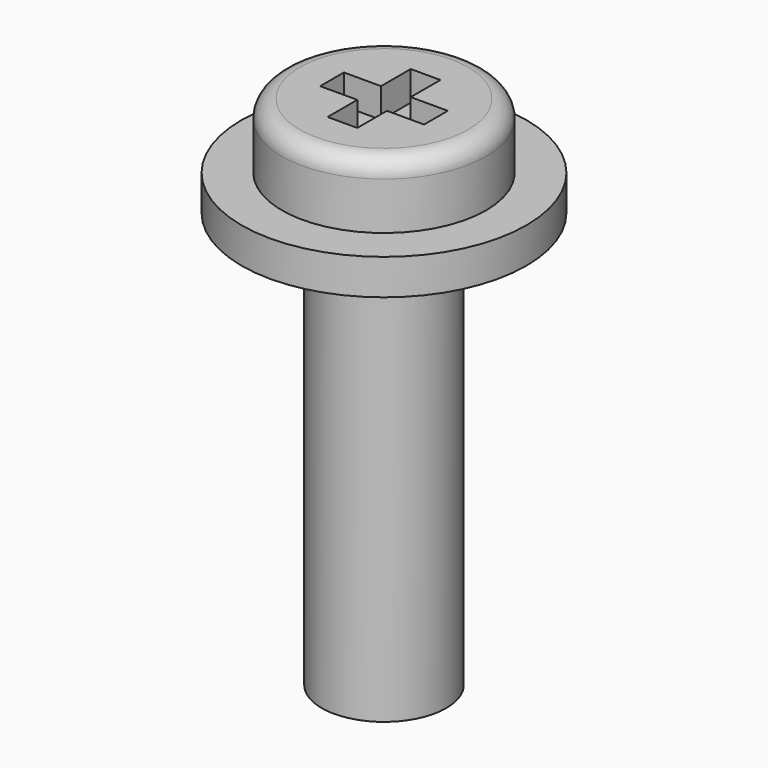
from build123d import *

# Parameters (mm, degrees)
POCKET_DEPTH = 0.5
FILLET_R     = 0.3


with BuildPart() as part:
    # Sketch001 → Revolution (revolve)
    with BuildSketch(Plane.XZ):
        Polygon((1.05, -7), (1.05, 0), (2.4, 0), (2.4, 0.6), (1.72, 0.6), (1.72, 1.7), (0, 1.7), (0, -7), align=None)
    revolve(axis=Axis((0, 0, 0), (0, 0, 1)))

    # Sketch → Pocket (cut)
    with BuildSketch(Plane(origin=(0, 0, 1.7), x_dir=(-1, 0, 0), z_dir=(0, 0, 1))):
        Polygon((-0.25, 0.875), (0.25, 0.875), (0.25, 0.25), (0.875, 0.25), (0.875, -0.25), (0.25, -0.25), (0.25, -0.875), (-0.25, -0.875), (-0.25, -0.25), (-0.875, -0.25), (-0.875, 0.25), (-0.25, 0.25), align=None)
    extrude(amount=-POCKET_DEPTH, mode=Mode.SUBTRACT)

    # Fillet
    fillet_edges = [part.edges().sort_by_distance(p)[0] for p in [
        (-1.72, 0, 1.7),
    ]]
    fillet(fillet_edges, radius=FILLET_R)


solid = part.part
